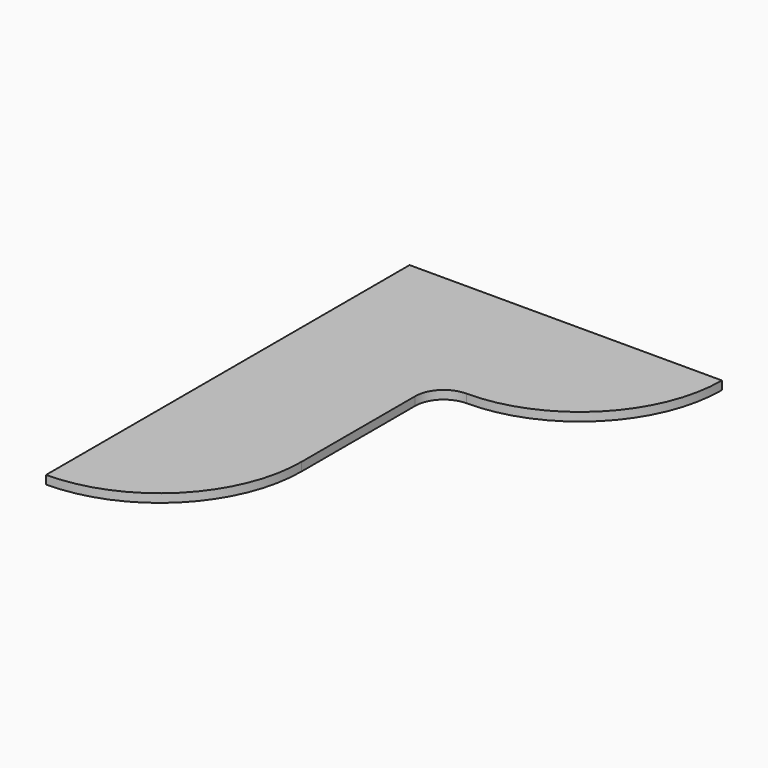
from build123d import *

# Parameters (mm, degrees)
F1_DEPTH = 15


with BuildPart() as f1:
    # F0 (on Top) → F1 (new body)
    with BuildSketch(Plane.XY):
        with BuildLine():
            Line((550, 0), (0, 0))
            Line((0, 0), (0, -800))
            ThreePointArc((0, -800), (176.776695, -726.776695), (250, -550))
            Line((250, -550), (250, -300))
            ThreePointArc((250, -300), (264.644661, -264.644661), (300, -250))
            ThreePointArc((300, -250), (476.776695, -176.776695), (550, 0))
        make_face()
    extrude(amount=F1_DEPTH)


solid = f1.part
